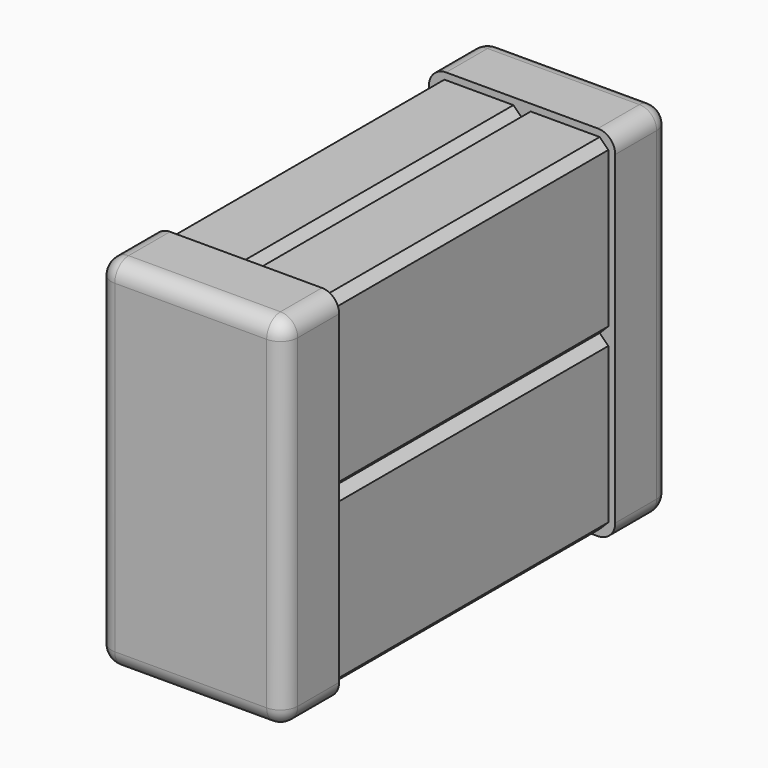
from build123d import *

# Parameters (mm, degrees)
F0_W     = 50
F0_H     = 50
F1_DEPTH = 25
F2_SIZE  = 2.5
F5_W     = 54
F5_H     = 104
F6_DEPTH = 20
F7_R     = 5


with BuildPart() as f1:
    # F0 (on Right) → F1 (new body)
    with BuildSketch(Plane.YZ):
        with Locations((25, 25)):
            Rectangle(F0_W, F0_H)
    extrude(amount=F1_DEPTH)

    # F2
    f2_edges = [f1.edges().sort_by_distance(p)[0] for p in [
        (25, 25, 50),
        (0, 25, 50),
        (25, 25, 0),
        (0, 25, 0),
    ]]
    chamfer(f2_edges, length=F2_SIZE)

    # F3: F1 across face


with BuildPart() as f1_1:
    add(f1.part)
    add(f1.part.mirror(Plane(origin=(12.5, 25, 50), x_dir=(1, 0, 0), z_dir=(0, 0, 1))))

    # F4: F1 across face


with BuildPart() as f1_2:
    add(f1_1.part)
    add(f1_1.part.mirror(Plane(origin=(25, 25, 25), x_dir=(0, 1, 0), z_dir=(1, 0, 0))))

    # F5 (on face) → F6 (join)
    with BuildSketch(Plane(origin=(0, 50, 0), x_dir=(-1, 0, 0), z_dir=(0, 1, 0))):
        with Locations((-25, 50)):
            Rectangle(F5_W, F5_H)
    extrude(amount=F6_DEPTH)

    # F7
    f7_edges = [f1_2.edges().sort_by_distance(p)[0] for p in [
        (25, 70, 102),
        (52, 70, 50),
        (25, 70, -2),
        (-2, 70, 50),
        (-2, 60, -2),
        (-2, 60, 102),
        (52, 60, 102),
        (52, 60, -2),
    ]]
    fillet(f7_edges, radius=F7_R)

    # F8: F1 across face


with BuildPart() as f1_3:
    add(f1_2.part)
    add(f1_2.part.mirror(Plane(origin=(25, 0, 50), x_dir=(1, 0, 0), z_dir=(0, -1, 0))))


solid = f1_3.part
